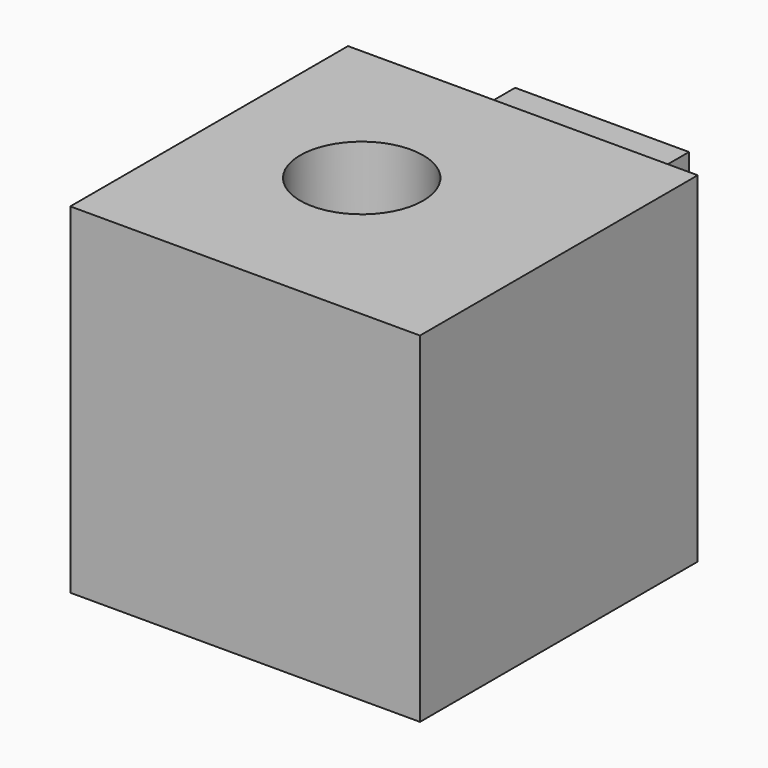
from build123d import *

# Parameters (mm, degrees)
F0_W     = 52.226100117
F0_H     = 51.8441870809
F1_DEPTH = 50.8
F2_R     = 9.1837080102
F3_DEPTH = 58.674
F4_W     = 25.969831273
F4_H     = 25.969831273
F5_DEPTH = 12.7
F6_R     = 11.765038499
F7_DEPTH = 12.7


with BuildPart() as f1:
    # F0 (on Top) → F1 (new body)
    with BuildSketch(Plane.XY):
        with Locations((26.1130500585, 25.9220935404)):
            Rectangle(F0_W, F0_H)
    extrude(amount=F1_DEPTH)

    # F2 (on face) → F3 (cut)
    with BuildSketch(Plane.XY.offset(50.8)):
        with Locations((22.0552645624, 26.8291290849)):
            Circle(F2_R)
    extrude(amount=-F3_DEPTH, mode=Mode.SUBTRACT)

    # F4 (on face) → F5 (join)
    with BuildSketch(Plane(origin=(0, 51.8441870809, 0), x_dir=(-1, 0, 0), z_dir=(0, 1, 0))):
        with Locations((-27.7839014307, 31.9849038497)):
            Rectangle(F4_W, F4_H)
    extrude(amount=F5_DEPTH)

    # F6 (on face) → F7 (join)
    with BuildSketch(Plane(origin=(0, 0, 0), x_dir=(0, -1, 0), z_dir=(-1, 0, 0))):
        with Locations((-31.2210861593, 25.1105371863)):
            Circle(F6_R)
    extrude(amount=F7_DEPTH)


solid = f1.part
